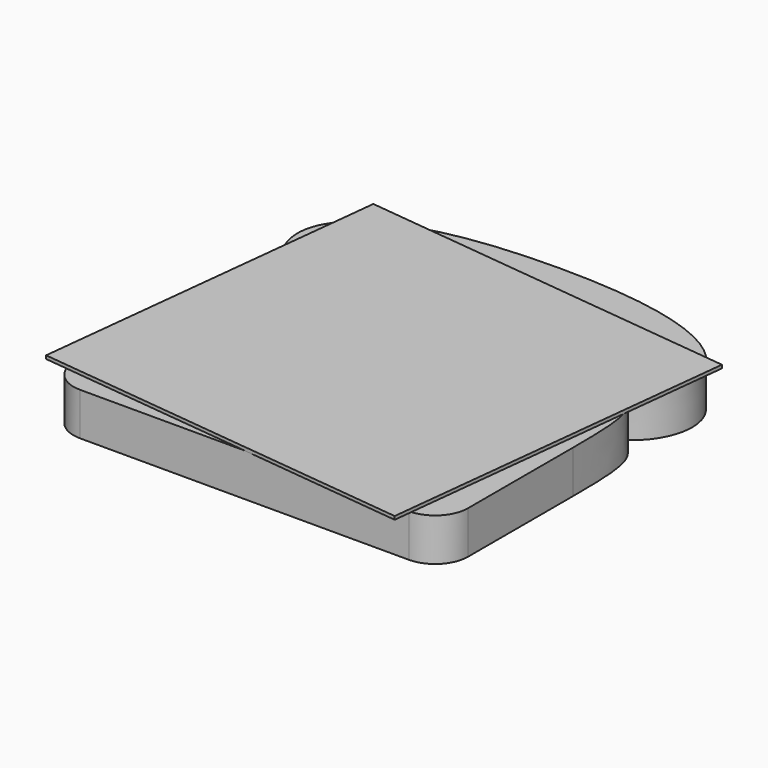
from build123d import *

# Parameters (mm, degrees)
F1_DEPTH = 13
F3_DEPTH = 25
F5_DEPTH = 1


with BuildPart() as f1:
    # F0 (on Top) → F1 (new body)
    with BuildSketch(Plane.XY):
        Polygon((60, 81.0702352943), (0, 81.0702352943), (-60, 81.0702352943), (-60, -38.9297647057), (0, -38.9297647057), (60, -38.9297647057), align=None)
    extrude(amount=F1_DEPTH)

    # F2 (on face) → F3 (cut)
    with BuildSketch(Plane.XY.offset(13)):
        Polygon((-101.7926856875, -77.1939546643), (0, -77.1939546643), (101.7926856875, -77.1939546643), (101.7926856875, 81.0702352943), (101.7926856875, 114.1239181161), (-101.7926856875, 114.1239181161), (-101.7926856875, 81.0702352943), align=None)
        with BuildLine():
            add(Edge.make_bspline(
                [(0, 81.0702352943), (-42.8028441966, 81.0702352943), (-60, 69.7800374747), (-60, 56.2431253493)],
                knots=[0, 0, 0, 0, 64.9336999425, 64.9336999425, 64.9336999425, 64.9336999425], degree=3))
            add(Edge.make_bspline(
                [(0, 81.0702352943), (42.8028441966, 81.0702352943), (60, 69.7800374747), (60, 56.2431253493)],
                knots=[0, 0, 0, 0, 64.9336999425, 64.9336999425, 64.9336999425, 64.9336999425], degree=3))
            add(Edge.make_bspline(
                [(60, 56.2431253493), (60, 49.7238418059), (55.5295944214, 42.6254570484), (50.0710271299, 40.9519709647)],
                knots=[0, 0, 0, 0, 18.2319473636, 18.2319473636, 18.2319473636, 18.2319473636], degree=3))
            add(Edge.make_bspline(
                [(50.0710271299, 40.9519709647), (58.6315952241, 36.3048054278), (60, 34.0977534652), (60, 11.0702352943)],
                knots=[0, 0, 0, 0, 31.4881347325, 31.4881347325, 31.4881347325, 31.4881347325], degree=3))
            Line((60, 11.0702352943), (60, -28.9297647057))
            ThreePointArc((60, -28.9297647057), (57.0710678119, -36.0008325176), (50, -38.9297647057))
            Line((50, -38.9297647057), (0, -38.9297647057))
            Line((0, -38.9297647057), (-50, -38.9297647057))
            ThreePointArc((-50, -38.9297647057), (-57.0710678119, -36.0008325176), (-60, -28.9297647057))
            Line((-60, -28.9297647057), (-60, 11.0702352943))
            add(Edge.make_bspline(
                [(-50.0710271299, 40.9519709647), (-58.6315952241, 36.3048054278), (-60, 34.0977534652), (-60, 11.0702352943)],
                knots=[0, 0, 0, 0, 31.4881347325, 31.4881347325, 31.4881347325, 31.4881347325], degree=3))
            add(Edge.make_bspline(
                [(-60, 56.2431253493), (-60, 49.7238418059), (-55.5295944214, 42.6254570484), (-50.0710271299, 40.9519709647)],
                knots=[0, 0, 0, 0, 18.2319473636, 18.2319473636, 18.2319473636, 18.2319473636], degree=3))
        make_face(mode=Mode.SUBTRACT)
    extrude(amount=-F3_DEPTH, mode=Mode.SUBTRACT)

    # F4 (on face) → F5 (join)
    with BuildSketch(Plane.XY.offset(13)):
        Polygon((62.1770835809, 64.8846687683), (-54.1172668378, 77.7152595846), (-66.1802154686, -31.6213091851), (50.1141349501, -44.4519000014), align=None)
    extrude(amount=F5_DEPTH)


solid = f1.part
